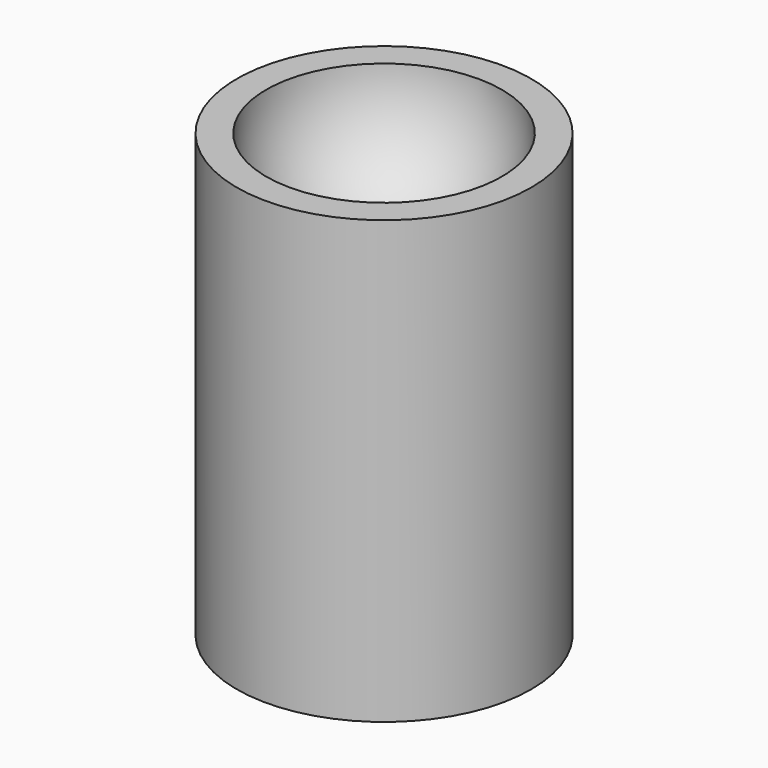
from build123d import *

# Parameters (mm, degrees)
F0_R     = 100
F1_DEPTH = 300


with BuildPart() as f1:
    # F0 (on Top) → F1 (new body)
    with BuildSketch(Plane.XY):
        Circle(F0_R)
    extrude(amount=F1_DEPTH)

    # F2 (on face) → F3 (revolve, cut)
    with BuildSketch(Plane.XY.offset(300)):
        with BuildLine():
            Line((0, -80), (0, 80))
            ThreePointArc((0, 80), (-80, 0), (0, -80))
        make_face()
    revolve(axis=Axis((0, 0, 300), (0, -1, 0)), mode=Mode.SUBTRACT)


solid = f1.part
